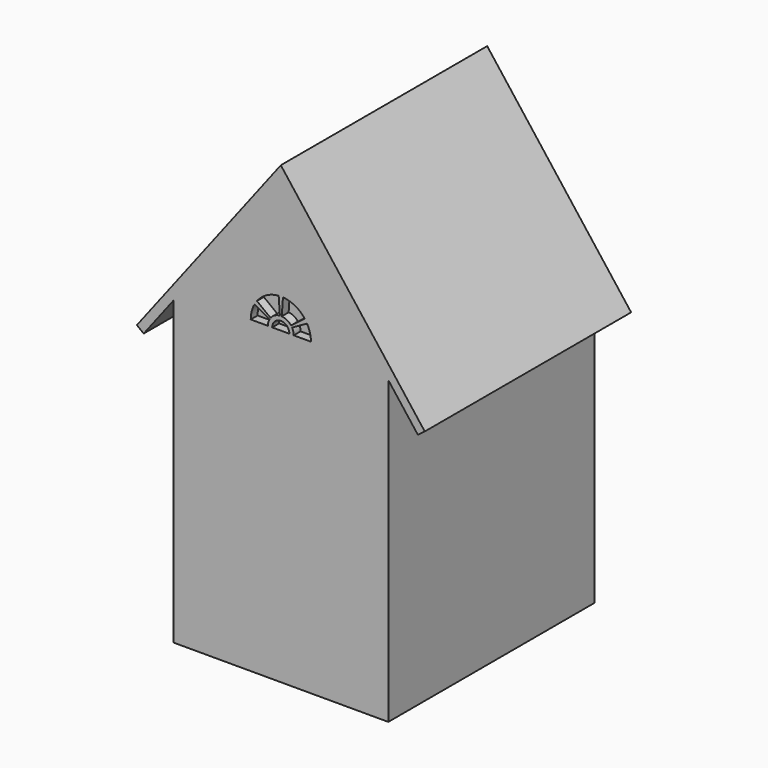
from build123d import *

# Parameters (mm, degrees)
F1_DEPTH      = 30
F1_DEPTH_BACK = 30
F3_DEPTH      = 30
F3_DEPTH_BACK = 30
F5_DEPTH      = 2


with BuildPart() as f1:
    # F0 (on Front) → F1 (new body, two sides)
    with BuildSketch(Plane.XZ) as f1_sk:
        Polygon((-25, 70), (-25, 0), (0, 0), (25, 0), (25, 70), (0, 102.580634), align=None)
    extrude(amount=F1_DEPTH)
    extrude(f1_sk.sketch, amount=-F1_DEPTH_BACK)

    # F2 (on Front) → F3 (join, two sides)
    with BuildSketch(Plane.XZ) as f3_sk:
        Polygon((-33.481879, 62.23156), (-31.895172, 61.014037), (0, 102.580634), (31.895172, 61.014037), (33.481879, 62.23156), (0, 105.865994), align=None)
    extrude(amount=F3_DEPTH)
    extrude(f3_sk.sketch, amount=-F3_DEPTH_BACK)

    # F4 (on face) → F5 (cut)
    with BuildSketch(Plane.XZ.offset(30)):
        with BuildLine():
            Line((-7, 72), (-3, 72))
            ThreePointArc((-3, 72), (-2.902414, 72.758942), (-2.616005, 73.468509))
            Line((-2.616005, 73.468509), (-6.104012, 75.42652))
            ThreePointArc((-6.104012, 75.42652), (-6.7723, 73.770864), (-7, 72))
        make_face()
        with BuildLine():
            Line((-5.553473, 76.26133), (-2.38006, 73.826284))
            ThreePointArc((-2.38006, 73.826284), (-1.422173, 74.641481), (-0.214286, 74.992337))
            Line((-0.214286, 74.992337), (-0.5, 78.98212))
            ThreePointArc((-0.5, 78.98212), (-3.318405, 78.163456), (-5.553473, 76.26133))
        make_face()
        with BuildLine():
            ThreePointArc((5.553473, 76.26133), (3.318405, 78.163456), (0.5, 78.98212))
            Line((0.5, 78.98212), (0.214286, 74.992337))
            ThreePointArc((0.214286, 74.992337), (1.422173, 74.641481), (2.38006, 73.826284))
            Line((2.38006, 73.826284), (5.553473, 76.26133))
        make_face()
        with BuildLine():
            ThreePointArc((7, 72), (6.7723, 73.770864), (6.104012, 75.42652))
            Line((6.104012, 75.42652), (2.616005, 73.468509))
            ThreePointArc((2.616005, 73.468509), (2.902414, 72.758942), (3, 72))
            Line((3, 72), (7, 72))
        make_face()
        with BuildLine():
            ThreePointArc((-1.744003, 72.979006), (-1.934943, 72.505961), (-2, 72))
            Line((-2, 72), (0, 72))
            Line((0, 72), (2, 72))
            ThreePointArc((2, 72), (1.934943, 72.505961), (1.744003, 72.979006))
            ThreePointArc((1.744003, 72.979006), (1.66962, 73.101077), (1.586707, 73.217523))
            ThreePointArc((1.586707, 73.217523), (0.948116, 73.760987), (0.142857, 73.994891))
            ThreePointArc((0.142857, 73.994891), (0, 74), (-0.142857, 73.994891))
            ThreePointArc((-0.142857, 73.994891), (-0.948116, 73.760987), (-1.586707, 73.217523))
            ThreePointArc((-1.586707, 73.217523), (-1.66962, 73.101077), (-1.744003, 72.979006))
        make_face()
    extrude(amount=-F5_DEPTH, mode=Mode.SUBTRACT)


solid = f1.part
